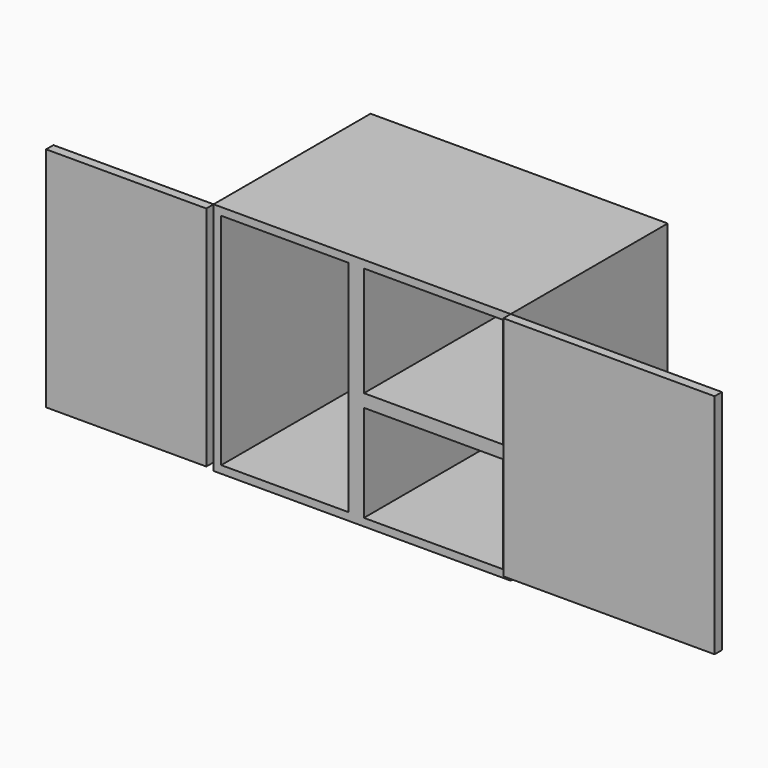
from build123d import *

# Parameters (mm, degrees)
F0_W      = 92.4431048334
F0_H      = 61.8447158486
F1_DEPTH  = 72
F2_T      = 2.5
F3_W      = 5.1042162813
F3_H      = 61.8447158486
F4_DEPTH  = 72
F5_W      = 61.8447158486
F5_H      = 4.2327993214
F6_DEPTH  = 47
F7_W      = 52.5356544554
F7_H      = 74.5
F8_DEPTH  = 3
F9_R      = 2.3868523894
F10_DEPTH = 7
F11_W     = 69.2574879527
F11_H     = 74.5
F12_DEPTH = 3
F13_R     = 3.4486814064
F14_DEPTH = 6


with BuildPart() as f1:
    # F0 (on Top) → F1 (new body)
    with BuildSketch(Plane.XY):
        with Locations((-0.5814712495, 2.8415350243)):
            Rectangle(F0_W, F0_H)
    extrude(amount=F1_DEPTH)

    # F2
    f2_openings = [f1.faces().sort_by_distance(p)[0] for p in [
        (-0.581471, -28.080823, 36),
    ]]
    offset(amount=F2_T, openings=f2_openings, kind=Kind.INTERSECTION)

    # F3 (on face) → F4 (join)
    with BuildSketch(Plane.XY):
        with Locations((-2.5521081407, 2.8415350243)):
            Rectangle(F3_W, F3_H)
    extrude(amount=F4_DEPTH)

    # F5 (on face) → F6 (join)
    with BuildSketch(Plane.YZ):
        with Locations((2.8415350243, 33.8836003393)):
            Rectangle(F5_W, F5_H)
    extrude(amount=F6_DEPTH)


with BuildPart() as f8:
    # F7 (on face) → F8 (new body)
    with BuildSketch(Plane.XZ.offset(28.0808228999)):
        with Locations((-75.5708508939, 37.25)):
            Rectangle(F7_W, F7_H)
    extrude(amount=F8_DEPTH)

    # F9 (on face) → F10 (join)
    with BuildSketch(Plane(origin=(0, -28.0808228999, 0), x_dir=(-1, 0, 0), z_dir=(0, 1, 0))):
        with Locations((97.4982827902, 41.1513149738)):
            Circle(F9_R)
    extrude(amount=F10_DEPTH)


with BuildPart() as f12:
    # F11 (on face) → F12 (new body)
    with BuildSketch(Plane.XZ.offset(28.0808228999)):
        with Locations((82.7688251436, 37.25)):
            Rectangle(F11_W, F11_H)
    extrude(amount=F12_DEPTH)

    # F13 (on face) → F14 (join)
    with BuildSketch(Plane(origin=(0, -28.0808228999, 0), x_dir=(-1, 0, 0), z_dir=(0, 1, 0))):
        with Locations((-104.3023094535, 37.0095334947)):
            Circle(F13_R)
    extrude(amount=F14_DEPTH)


solid = Compound([f1.part, f8.part, f12.part])
